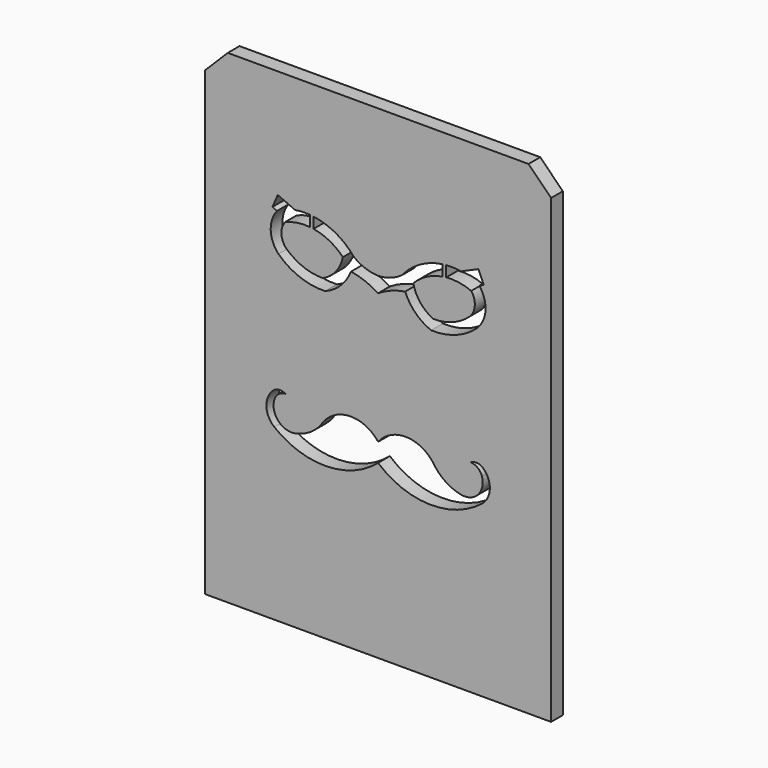
from build123d import *

# Parameters (mm, degrees)
F0_W     = 77.724
F0_H     = 108.712
F1_DEPTH = 3.302
F3_R     = 13.3445871966
F4_DEPTH = 3.302
F5_SIZE  = 5.08
F7_DEPTH = 3.303


with BuildPart() as f1:
    # F0 (on Front) → F1 (new body)
    with BuildSketch(Plane.XZ):
        Rectangle(F0_W, F0_H)
    extrude(amount=F1_DEPTH)

    # F3 (on face) → F4 (join)
    with BuildSketch(Plane.XZ.offset(3.302)):
        with BuildLine():
            add(Edge.make_bspline(
                [(-33.1284857231, -24.3833554431), (-30.3980902484, -23.448268281), (-27.6625298974, -23.0135580616), (-24.9168122419, -22.8877504962)],
                knots=[0.0236239796, 0.0236239796, 0.0236239796, 0.0236239796, 0.1438563975, 0.1438563975, 0.1438563975, 0.1438563975], degree=3))
            ThreePointArc((-33.1284857231, -24.3833554431), (-29.1410849834, -38.4326879001), (-15.8749999992, -44.5395771521))
            ThreePointArc((-15.8749999992, -44.5395771521), (-7.7803065213, -45.3411097626), (9e-10, -47.7145771515))
            ThreePointArc((9e-10, -47.7145771515), (7.780306523, -45.3411097624), (15.8750000008, -44.5395771515))
            ThreePointArc((15.8750000008, -44.5395771515), (28.9710149024, -38.6284104056), (33.2008619827, -24.8968448621))
            add(Edge.make_bspline(
                [(22.7832318895, -28.264905571), (26.870414184, -28.3483991479), (30.7081117423, -27.7740633769), (33.2008619827, -24.8968448621)],
                knots=[0.8224951004, 0.8224951004, 0.8224951004, 0.8224951004, 0.9908039431, 0.9908039431, 0.9908039431, 0.9908039431], degree=3))
            add(Edge.make_bspline(
                [(15.9953683619, -27.7933645546), (16.7598950609, -27.862629463), (19.0104314318, -28.0581684328), (21.3052242348, -28.2347126075), (22.7832318895, -28.264905571)],
                knots=[0.7300371536, 0.7300371536, 0.7300371536, 0.7300371536, 0.7616312241, 0.8224951004, 0.8224951004, 0.8224951004, 0.8224951004], degree=3))
            add(Edge.make_bspline(
                [(12.0445173218, -27.4086319137), (13.3501324037, -27.5450763369), (14.6659309282, -27.6729196282), (15.9953683619, -27.7933645546)],
                knots=[0.6750981435, 0.6750981435, 0.6750981435, 0.6750981435, 0.7300371536, 0.7300371536, 0.7300371536, 0.7300371536], degree=3))
            add(Edge.make_bspline(
                [(6.5035843618, -26.7679947406), (8.3365045469, -27.0014140297), (10.1801283043, -27.2137923413), (12.0445173218, -27.4086319137)],
                knots=[0.5966464709, 0.5966464709, 0.5966464709, 0.5966464709, 0.6750981435, 0.6750981435, 0.6750981435, 0.6750981435], degree=3))
            add(Edge.make_bspline(
                [(-15.7821923495, -23.3437299796), (-10.5480047667, -23.9624284424), (-3.1004870846, -25.4363431139), (4.3262408996, -26.490713729), (6.5035843618, -26.7679947406)],
                knots=[0.2765511336, 0.2765511336, 0.2765511336, 0.2765511336, 0.5034529768, 0.5966464709, 0.5966464709, 0.5966464709, 0.5966464709], degree=3))
            add(Edge.make_bspline(
                [(-24.9168122419, -22.8877504962), (-22.5127229742, -22.777596192), (-19.4725911361, -22.9372512735), (-16.4147628171, -23.2689580365), (-15.7821923495, -23.3437299796)],
                knots=[0.1438563975, 0.1438563975, 0.1438563975, 0.1438563975, 0.2491292266, 0.2765511336, 0.2765511336, 0.2765511336, 0.2765511336], degree=3))
        make_face()
        with BuildLine():
            ThreePointArc((-24.3962783332, -9.4429305632), (-23.5493439512, -16.2082072875), (-24.9168122419, -22.8877504962))
            add(Edge.make_bspline(
                [(-24.9168122419, -22.8877504962), (-22.5127229742, -22.777596192), (-19.4725911361, -22.9372512735), (-16.4147628171, -23.2689580365), (-15.7821923495, -23.3437299796)],
                knots=[0.1438563975, 0.1438563975, 0.1438563975, 0.1438563975, 0.2491292266, 0.2765511336, 0.2765511336, 0.2765511336, 0.2765511336], degree=3))
            ThreePointArc((-15.7821923495, -23.3437299796), (-16.7909764629, -16.1431204561), (-15.7821923495, -8.9425109327))
            add(Edge.make_bspline(
                [(-20.8150930703, 3.0249084812), (-20.084698855, 3.2617064252), (-18.5750809579, 3.7511331524), (-20.1108934357, 5.7423249077), (-21.3989497629, 8.4805039988), (-19.5926222129, 8.6232034417), (-20.0960081308, 6.4882204736), (-17.9845367, 4.4717269755), (-19.4827279307, 7.4877563676), (-17.6531933794, 7.9935220173), (-17.6518746238, 3.7165445405), (-19.7201607312, 2.5442912986), (-19.0033211234, 0.5113026434), (-21.5358089244, 0.646088536), (-20.7796208818, -5.7027505195), (-14.9489180074, 0.0978196974), (-17.977030073, 1.5236381763), (-14.9168721562, 2.6666255778), (-16.1211586732, 6.3598723413), (-13.8328776174, 5.6005762962), (-15.1421128769, 3.3154322822), (-14.4747759607, 0.1624480587), (-13.8084140261, 5.1188240441), (-11.0343102947, 2.7331078221), (-14.5615723999, -0.162479085), (-17.3031216925, -3.3366762112), (-18.0975664008, -8.8898410691), (-13.4356882131, -5.5746333853), (-15.3648709473, -3.8082111356), (-12.0527139611, -3.6659211986), (-13.248535603, -1.079337143), (-9.5910344453, -1.7447413323), (-10.7422685487, 3.0079941618), (-8.9849464366, -1.96339633), (-8.8102943074, 5.4988116301), (-7.4861779197, -0.6957485248), (-9.6724060403, -0.966318494), (-11.0218385517, -3.5291741027), (-13.7004320012, -4.2797101397), (-12.8029593717, -6.9381020727), (-14.7089673153, -8.2196946287), (-15.7821923495, -8.9425109327)],
                knots=[0, 0, 0, 0, 0.0231511603, 0.0478500744, 0.0752755755, 0.0903366321, 0.1142638791, 0.1352244444, 0.1593040946, 0.1744947233, 0.2060790631, 0.2315955315, 0.2516703156, 0.2733460952, 0.3049833457, 0.3431527772, 0.3650886659, 0.3896180862, 0.4183185893, 0.4354180503, 0.4626318971, 0.4841465121, 0.512674348, 0.5346264378, 0.5675595767, 0.6056671213, 0.6368592747, 0.6681518224, 0.6879987795, 0.7121233264, 0.7334743783, 0.7591560932, 0.7848708559, 0.8073025156, 0.8374341523, 0.8673194844, 0.8904493251, 0.9187369989, 0.9444600919, 0.9686867066, 1, 1, 1, 1], degree=3))
            add(Edge.make_bspline(
                [(-25.8914344013, -2.4853385985), (-26.396572956, -2.0003344615), (-27.3138435109, -1.1196261405), (-29.1352849859, -2.0598979002), (-28.7106271057, 0.8204026064), (-32.0312644098, -1.1715068103), (-31.3002695814, 3.7485837155), (-29.4483178555, 3.8301118075), (-30.8071023081, 1.5653871303), (-28.9526334159, 1.3619840648), (-29.4792210737, 5.2085047756), (-26.921055424, 4.4342075194), (-28.8119762327, 2.2854028303), (-27.5906596289, -1.3990701213), (-27.7699356497, 3.0747016102), (-25.2099586785, 2.6066763518), (-26.5953437573, -0.395391095), (-23.7025988652, -2.0340069969), (-23.1772681034, -6.0499515041), (-20.5435134821, -4.1808959475), (-25.0748704565, 2.6489737746), (-20.1368344266, 0.7949418705), (-20.6048167244, 2.3336418411), (-20.8150930703, 3.0249084812)],
                knots=[0, 0, 0, 0, 0.0457250435, 0.0830311605, 0.1245988121, 0.1705511092, 0.2321726775, 0.2625557415, 0.30723362, 0.3358214151, 0.393012377, 0.4286583434, 0.4808472993, 0.5282384525, 0.5813000538, 0.6192860311, 0.6705302416, 0.7286736986, 0.7872738172, 0.8280557864, 0.9074882994, 0.958434574, 1, 1, 1, 1], degree=3))
            ThreePointArc((-25.8914344013, -2.4853385985), (-24.9290967698, -4.9824855111), (-24.3962783332, -7.6050683856))
            add(Edge.make_bspline(
                [(-24.3962783332, -9.4429305632), (-25.4357243907, -10.1342055857), (-27.412273175, -11.4486922391), (-27.4547789496, -7.4214675852), (-30.5466070306, -9.5733915774), (-30.4542370334, -5.4520792207), (-32.3177618611, -5.8417990903), (-32.7140680164, -4.2769830225), (-32.0543630337, -2.7007935171), (-32.1251676799, -4.5533058245), (-30.3843482976, -5.4648837492), (-32.0501040037, -1.6640768267), (-30.4436660674, -1.9005229869), (-30.1720801803, -6.5942041642), (-29.7456686663, -3.178537531), (-28.1334595609, -3.5814958653), (-29.8697325683, -5.6494579394), (-29.5018476184, -7.7306733995), (-27.2359049314, -6.3250302911), (-26.4788550338, -9.3239236743), (-25.0993332141, -8.1853413666), (-24.3962783332, -7.6050683856)],
                knots=[0, 0, 0, 0, 0.0670169121, 0.1274354192, 0.1840138636, 0.2505621343, 0.2960523516, 0.3441354147, 0.3840734056, 0.4287810373, 0.4665753725, 0.5348972739, 0.5667760176, 0.6369485958, 0.6883070256, 0.7231632661, 0.7842390879, 0.8324575559, 0.8851485442, 0.9414679355, 1, 1, 1, 1], degree=3))
        make_face()
        with BuildLine():
            add(Edge.make_bspline(
                [(-20.2924981713, -15.781018883), (-20.5370775999, -16.1379246214), (-20.134132622, -17.1534868603), (-20.8639151565, -18.5661521393), (-21.9358468203, -19.4575377926), (-22.3700864307, -21.8865095148), (-20.237349518, -21.5763362209), (-19.5672362136, -20.438180371), (-19.2965010699, -18.8033454883), (-19.7803037906, -17.8720601229), (-19.908738804, -16.4540465799), (-19.0188083322, -15.0649598827), (-20.0853771822, -15.4787748635), (-20.2924981713, -15.781018883)],
                knots=[0, 0, 0, 0, 0.0904118203, 0.1854248684, 0.2814922978, 0.3865094541, 0.4809925493, 0.5711470892, 0.6690619631, 0.748512495, 0.8439845899, 0.9234351565, 1, 1, 1, 1], degree=3))
        make_face(mode=Mode.SUBTRACT)
        with BuildLine():
            add(Edge.make_bspline(
                [(-22.3910957575, -11.5529615432), (-22.0568118654, -12.2037220004), (-21.1170784891, -12.8832887919), (-21.7129777335, -14.1967346716), (-20.5379115522, -14.568750962), (-20.4867607869, -13.5076873001), (-20.8432701563, -11.8831681267), (-21.6439811905, -11.2404808042), (-22.9718655512, -9.3501247732), (-22.6978835435, -10.9557285785), (-22.3910957575, -11.5529615432)],
                knots=[0, 0, 0, 0, 0.1505340204, 0.2658311351, 0.3614801071, 0.4617187858, 0.6051372816, 0.7298931385, 0.8618479683, 1, 1, 1, 1], degree=3))
        make_face(mode=Mode.SUBTRACT)
        with BuildLine():
            add(Edge.make_bspline(
                [(-18.3790698647, -10.1024601609), (-18.7969421772, -10.2564427963), (-19.1553590595, -11.577398565), (-19.219348267, -12.6506630096), (-19.2408550579, -13.9350019391), (-18.8743899715, -14.8858473731), (-18.2833235222, -14.0155234153), (-18.1315989973, -13.0706647968), (-18.7065283271, -12.3462231403), (-18.4694817034, -11.2210464666), (-17.1590443019, -10.374237249), (-18.0760721444, -9.9908079022), (-18.3790698647, -10.1024601609)],
                knots=[0, 0, 0, 0, 0.1240572212, 0.2333232805, 0.347818092, 0.428679644, 0.5131510602, 0.6107152668, 0.7012679009, 0.8047604962, 0.9100465523, 1, 1, 1, 1], degree=3))
        make_face(mode=Mode.SUBTRACT)
        with BuildLine():
            ThreePointArc((5.4403450859, -12.5461180708), (6.6092683485, -19.609411059), (6.5035843618, -26.7679947406))
            add(Edge.make_bspline(
                [(6.5035843618, -26.7679947406), (8.3365045469, -27.0014140297), (10.1801283043, -27.2137923413), (12.0445173218, -27.4086319137)],
                knots=[0.5966464709, 0.5966464709, 0.5966464709, 0.5966464709, 0.6750981435, 0.6750981435, 0.6750981435, 0.6750981435], degree=3))
            Line((12.0445173218, -27.4086319137), (12.0445173218, -21.4756764472))
            ThreePointArc((12.0445173218, -21.4756764472), (14.0199428419, -19.5002509271), (15.9953683619, -21.4756764472))
            Line((15.9953683619, -21.4756764472), (15.9953683619, -27.7933645546))
            add(Edge.make_bspline(
                [(15.9953683619, -27.7933645546), (16.7598950609, -27.862629463), (19.0104314318, -28.0581684328), (21.3052242348, -28.2347126075), (22.7832318895, -28.264905571)],
                knots=[0.7300371536, 0.7300371536, 0.7300371536, 0.7300371536, 0.7616312241, 0.8224951004, 0.8224951004, 0.8224951004, 0.8224951004], degree=3))
            ThreePointArc((22.7832318895, -28.264905571), (22.4736636829, -20.3696155623), (23.5801553445, -12.5461180708))
            Line((23.5801553445, -12.5461180708), (28.4554600831, -13.4531514135))
            ThreePointArc((28.4554600831, -13.4531514135), (31.673336573, -11.9989868814), (31.424967593, -8.4765393743))
            ThreePointArc((31.424967593, -8.4765393743), (29.2529740879, -8.2440657168), (29.0205004305, -10.4160592219))
            ThreePointArc((29.0205004305, -10.4160592219), (29.058069024, -11.9208265797), (27.614886003, -12.3485636115))
            ThreePointArc((27.614886003, -12.3485636115), (23.4712314741, -5.8636115848), (28.4554600831, 0))
            ThreePointArc((28.4554600831, 0), (23.3706331923, -0.6006945639), (18.2612345592, -0.9328753515))
            Line((18.2612345592, -0.9328753515), (21.109645709, 8.6648291047))
            Line((21.109645709, 8.6648291047), (22.7452469365, 8.179414619))
            ThreePointArc((22.7452469365, 8.179414619), (24.0675287583, 9.9087492795), (21.9295363303, 9.4988517773))
            ThreePointArc((21.9295363303, 9.4988517773), (17.0915933325, 15.0640837031), (15.5871994793, 22.2831070423))
            Line((15.5871994793, 22.2831070423), (14.8853833456, 29.6840668302))
            Line((14.8853833456, 29.6840668302), (17.9889984262, 30.165095753))
            Line((17.9889984262, 30.165095753), (17.720128815, 31.8998516907))
            Line((17.720128815, 31.8998516907), (14.8043116011, 31.4479295364))
            Line((14.8043116011, 31.4479295364), (14.2361351446, 35.1138234881))
            Line((14.2361351446, 35.1138234881), (12.1174789965, 34.7854532301))
            Line((12.1174789965, 34.7854532301), (12.6562453806, 31.3093140721))
            Line((12.6562453806, 31.3093140721), (10.0379107516, 30.7162171018))
            Line((10.0379107516, 30.7162171018), (10.2517836951, 29.4975203391))
            Line((10.2517836951, 29.4975203391), (12.7509497106, 29.9361068755))
            Line((12.7509497106, 29.9361068755), (14.0939988196, 22.2831070423))
            ThreePointArc((14.0939988196, 22.2831070423), (12.6245914015, 15.2177663733), (7.6988285058, 9.9437681912))
            ThreePointArc((7.6988285058, 9.9437681912), (5.5906171254, 10.4864212664), (6.8022884056, 8.6778637491))
            Line((6.8022884056, 8.6778637491), (8.4650181234, 9.060157463))
            Line((8.4650181234, 9.060157463), (10.762639533, -0.9330055424))
            ThreePointArc((10.762639533, -0.9330055424), (5.6515483018, -0.6008483836), (0.5650403473, 0))
            ThreePointArc((0.5650403473, 0), (5.5492689564, -5.8636115848), (1.4056144274, -12.3485636115))
            ThreePointArc((1.4056144274, -12.3485636115), (-0.0375685935, -11.9208265797), (0, -10.4160592219))
            ThreePointArc((0, -10.4160592219), (-0.2324736575, -8.2440657168), (-2.4044671625, -8.4765393743))
            ThreePointArc((-2.4044671625, -8.4765393743), (-2.6528361426, -11.9989868814), (0.5650403473, -13.4531514135))
            Line((0.5650403473, -13.4531514135), (5.4403450859, -12.5461180708))
        make_face()
        Polygon((9.1227404773, -7.4148867279), (8.4774624556, -4.9826856703), (9.749203307, -4.868891682), (10.3401336819, -7.1323132142), align=None, mode=Mode.SUBTRACT)
        Polygon((10.9397291529, -9.5362256838), (9.768018499, -9.8470877856), (9.2899553012, -8.0451578014), (10.461665955, -7.7342956997), align=None, mode=Mode.SUBTRACT)
        Polygon((12.2584053658, -7.3401992658), (12.7159978886, -9.0649705743), (11.5734964264, -9.3680832964), (11.1159039036, -7.6433119879), align=None, mode=Mode.SUBTRACT)
        Polygon((10.332212454, -4.8167246576), (11.5597705233, -4.7068840966), (12.1378842059, -6.8859273354), (10.9000811353, -7.0559568703), align=None, mode=Mode.SUBTRACT)
        Polygon((17.9045965268, -7.6433119879), (17.4470040041, -9.3680832964), (16.3045025419, -9.0649705743), (16.7620950646, -7.3401992658), align=None, mode=Mode.SUBTRACT)
        Polygon((18.5588344754, -7.7342956997), (19.7305451293, -8.0451578014), (19.2524819314, -9.8470877856), (18.0807712776, -9.5362256838), align=None, mode=Mode.SUBTRACT)
        Polygon((18.6803667486, -7.1323132142), (19.2712971234, -4.868891682), (20.5430379748, -4.9826856703), (19.8977599531, -7.4148867279), align=None, mode=Mode.SUBTRACT)
        Polygon((16.8826162245, -6.8859273354), (17.4607299071, -4.7068840966), (18.6882879764, -4.8167246576), (18.1204192951, -7.0559568703), align=None, mode=Mode.SUBTRACT)
        with BuildLine():
            ThreePointArc((14.2767767446, 4.6611620079), (12.1414040207, 5.7303494735), (11.1097303552, 7.8840968947))
            Line((11.1097303552, 7.8840968947), (14.2767767446, 7.8840968947))
            Line((14.2767767446, 7.8840968947), (14.2767767446, 4.6611620079))
        make_face(mode=Mode.SUBTRACT)
        with BuildLine():
            ThreePointArc((11.1459939594, 8.983289175), (12.2280091457, 10.9819830574), (14.2767767446, 11.9658963789))
            Line((14.2767767446, 11.9658963789), (14.2767767446, 8.983289175))
            Line((14.2767767446, 8.983289175), (11.1459939594, 8.983289175))
        make_face(mode=Mode.SUBTRACT)
        with BuildLine():
            ThreePointArc((18.430607267, 7.8840968947), (17.3673699452, 5.6986165643), (15.1747141111, 4.6502567644))
            Line((15.1747141111, 4.6502567644), (15.1747141111, 7.8840968947))
            Line((15.1747141111, 7.8840968947), (18.430607267, 7.8840968947))
        make_face(mode=Mode.SUBTRACT)
        with BuildLine():
            ThreePointArc((15.1747141111, 11.9768016224), (17.2797356479, 11.0126579566), (18.3943436628, 8.983289175))
            Line((18.3943436628, 8.983289175), (15.1747141111, 8.983289175))
            Line((15.1747141111, 8.983289175), (15.1747141111, 11.9768016224))
        make_face(mode=Mode.SUBTRACT)
        with BuildLine():
            ThreePointArc((1.5084841621, 28.7364097307), (5.1963193944, 39.8156504287), (15.8749999992, 44.5395771521))
            ThreePointArc((15.8749999992, 44.5395771521), (7.7803065213, 45.3411097626), (-9e-10, 47.7145771515))
            ThreePointArc((-9e-10, 47.7145771515), (-7.780306523, 45.3411097624), (-15.8750000008, 44.5395771515))
            ThreePointArc((-15.8750000008, 44.5395771515), (-30.2008361805, 37.0625327748), (-32.2586794783, 21.0343995142))
            ThreePointArc((-32.2586794783, 21.0343995142), (-31.4618060576, 11.8664205536), (-35.4362714152, 3.5663922047))
            ThreePointArc((-35.4362714152, 3.5663922047), (-26.8661908779, 8.4248419398), (-17.0921185192, 9.6570447531))
            ThreePointArc((-17.0921185192, 9.6570447531), (-3.3712650978, 14.8871009528), (1.5084841621, 28.7364097307))
        make_face()
        with Locations((-15.8750000008, 27.0770771515)):
            Circle(F3_R, mode=Mode.SUBTRACT)
    extrude(amount=-F4_DEPTH)

    # F5
    f5_edges = [f1.edges().sort_by_distance(p)[0] for p in [
        (-38.862, -1.651, 54.356),
        (38.862, -1.651, 54.356),
    ]]
    chamfer(f5_edges, length=F5_SIZE)

    # F6 (on face) → F7 (cut, through all)
    with BuildSketch(Plane.XZ.offset(3.302)):
        with BuildLine():
            ThreePointArc((0, 17.7992470562), (2.9259799263, 19.2595239635), (6.0847232479, 20.1057554935))
            ThreePointArc((6.0847232479, 20.1057554935), (8.4030825431, 16.6174369282), (11.9199320906, 14.3425906709))
            ThreePointArc((11.9199320906, 14.3425906709), (17.5521496286, 15.250052866), (22.3922886691, 18.2697243878))
            ThreePointArc((22.3922886691, 18.2697243878), (24.1346582563, 22.4183310209), (22.7144827852, 26.6879785948))
            Line((22.7144827852, 26.6879785948), (23.7515561066, 27.1427421039))
            Line((23.7515561066, 27.1427421039), (22.5416645408, 29.9018602818))
            Line((22.5416645408, 29.9018602818), (18.6499707574, 28.1953268238))
            ThreePointArc((18.6499707574, 28.1953268238), (16.9796908007, 28.3607790229), (15.3015451495, 28.3285806123))
            Line((15.3015451495, 28.3285806123), (15.3015451496, 25.9066787166))
            ThreePointArc((15.3015451496, 25.9066787166), (18.1614877216, 25.8291602538), (20.919172577, 25.0672843677))
            ThreePointArc((20.919172577, 25.0672843677), (21.7220157161, 22.4774470847), (20.6816980121, 19.9735394719))
            ThreePointArc((20.6816980121, 19.9735394719), (16.8626294088, 17.5698361275), (12.4261798066, 16.7446151326))
            ThreePointArc((12.4261798066, 16.7446151326), (9.4918847749, 19.0068204373), (7.9172497202, 22.3606517714))
            ThreePointArc((7.9172497202, 22.3606517714), (10.9367663095, 24.6149259554), (14.5120127117, 25.8052392309))
            Line((14.5120127117, 25.8052392309), (14.5120127116, 28.2445575605))
            ThreePointArc((14.5120127116, 28.2445575605), (9.4574501162, 26.5578625175), (5.3765727933, 23.1314965892))
            ThreePointArc((5.3765727933, 23.1314965892), (2.8326457203, 21.7760383678), (0, 21.2422311306))
            ThreePointArc((-8e-10, 21.2422311306), (-2.8326457211, 21.7760383677), (-5.3765727942, 23.131496589))
            ThreePointArc((-5.3765727942, 23.131496589), (-9.4574501172, 26.5578625171), (-14.5120127127, 28.2445575599))
            Line((-14.5120127127, 28.2445575599), (-14.5120127127, 25.8052392304))
            ThreePointArc((-14.5120127127, 25.8052392304), (-10.9367663104, 24.614925955), (-7.917249721, 22.3606517711))
            ThreePointArc((-7.917249721, 22.3606517711), (-9.4918847756, 19.0068204369), (-12.4261798072, 16.7446151322))
            ThreePointArc((-12.4261798072, 16.7446151322), (-16.8626294095, 17.5698361269), (-20.6816980128, 19.9735394711))
            ThreePointArc((-20.6816980128, 19.9735394711), (-21.7220157169, 22.4774470839), (-20.9191725779, 25.0672843669))
            ThreePointArc((-20.9191725779, 25.0672843669), (-18.1614877226, 25.8291602531), (-15.3015451506, 25.906678716))
            Line((-15.3015451506, 25.906678716), (-15.3015451506, 28.3285806117))
            ThreePointArc((-15.3015451506, 28.3285806117), (-16.9796908017, 28.3607790222), (-18.6499707584, 28.1953268231))
            Line((-18.6499707584, 28.1953268231), (-22.5416645419, 29.901860281))
            Line((-22.5416645419, 29.901860281), (-23.7515561076, 27.142742103))
            Line((-23.7515561076, 27.142742103), (-22.7144827862, 26.687978594))
            ThreePointArc((-22.7144827862, 26.687978594), (-24.1346582571, 22.41833102), (-22.3922886698, 18.269724387))
            ThreePointArc((-22.3922886698, 18.269724387), (-17.5521496292, 15.2500528653), (-11.9199320912, 14.3425906704))
            ThreePointArc((-11.9199320912, 14.3425906704), (-8.4030825437, 16.6174369278), (-6.0847232487, 20.1057554932))
            ThreePointArc((-6.0847232487, 20.1057554932), (-2.925979927, 19.2595239634), (-7e-10, 17.7992470562))
        make_face()
        with BuildLine():
            ThreePointArc((-23.3287482958, -16.2404655727), (-11.5765881184, -20.2051496634), (6e-10, -15.7537907362))
            ThreePointArc((0, -15.7537907362), (11.5765881191, -20.205149663), (23.3287482964, -16.2404655719))
            ThreePointArc((23.3287482964, -16.2404655719), (25.1031580449, -12.5634091874), (23.3287482964, -8.886352803))
            ThreePointArc((23.3287482964, -8.886352803), (22.0678979144, -8.5243870247), (20.8070475324, -8.886352803))
            ThreePointArc((20.8070475324, -8.886352803), (22.3811977992, -9.4539678692), (23.3287482964, -10.8332009826))
            ThreePointArc((23.3287482964, -10.8332009826), (22.4455789372, -14.7288707254), (18.6548899937, -15.9885961696))
            ThreePointArc((18.6548899937, -15.9885961696), (15.0067464531, -14.4545125445), (12.274697423, -11.5912500769))
            ThreePointArc((12.274697423, -11.5912500769), (6.1373487115, -8.5816036168), (0, -11.5912500769))
            ThreePointArc((4e-10, -11.5912500769), (-6.1373487112, -8.5816036171), (-12.2746974225, -11.5912500773))
            ThreePointArc((-12.2746974225, -11.5912500773), (-15.0067464526, -14.454512545), (-18.6548899931, -15.9885961703))
            ThreePointArc((-18.6548899931, -15.9885961703), (-22.4455789367, -14.7288707262), (-23.328748296, -10.8332009835))
            ThreePointArc((-23.328748296, -10.8332009835), (-22.3811977988, -9.4539678701), (-20.8070475321, -8.8863528037))
            ThreePointArc((-20.8070475321, -8.8863528037), (-22.0678979141, -8.5243870256), (-23.3287482961, -8.8863528038))
            ThreePointArc((-23.3287482961, -8.8863528038), (-25.1031580444, -12.5634091883), (-23.3287482958, -16.2404655727))
        make_face()
    extrude(amount=-F7_DEPTH, mode=Mode.SUBTRACT)


solid = f1.part
